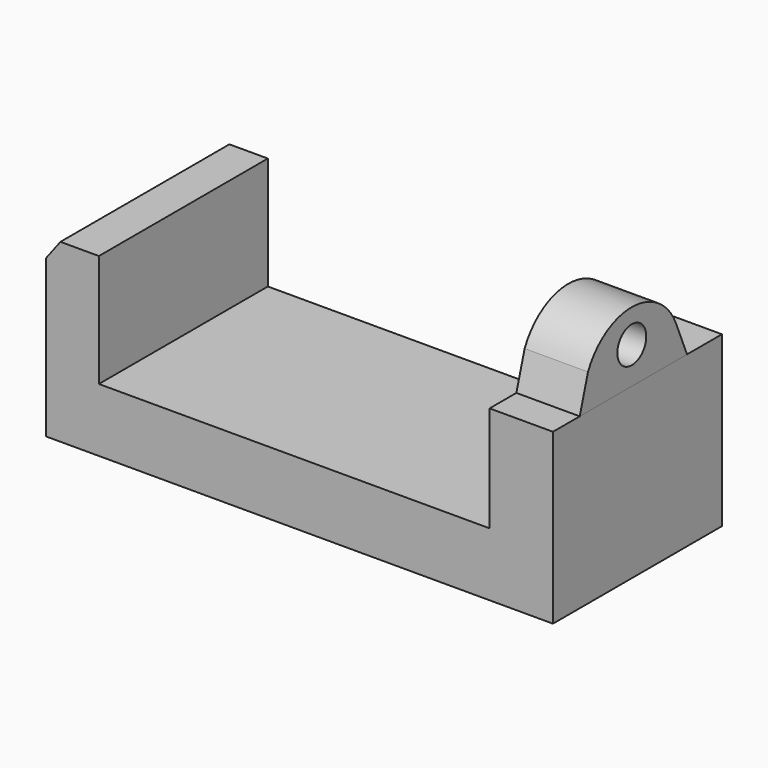
from build123d import *

# Parameters (mm, degrees)
F1_DEPTH = 127
F2_R     = 10.866884
F3_DEPTH = 38.1


with BuildPart() as f1:
    # F0 (on Front) → F1 (new body)
    with BuildSketch(Plane.XZ):
        Polygon((0, 94.452262), (0, 0), (304.8, 0), (304.8, 101.6), (266.7, 101.6), (266.7, 38.1), (31.75, 38.1), (31.75, 105.840716), (8.627616, 105.840716), align=None)
    extrude(amount=F1_DEPTH)


with BuildPart() as f3:
    # F2 (on face) → F3 (new body)
    with BuildSketch(Plane.YZ.offset(304.8)):
        with BuildLine():
            Line((-100.668401, 122.582532), (-106.871866, 101.6))
            Line((-106.871866, 101.6), (-26.226833, 101.6))
            Line((-26.226833, 101.6), (-34.498122, 121.341839))
            ThreePointArc((-34.498122, 121.341839), (-67.178913, 143.527437), (-100.668401, 122.582532))
        make_face()
        with Locations((-67.743756, 123.601116)):
            Circle(F2_R, mode=Mode.SUBTRACT)
    extrude(amount=-F3_DEPTH)


solid = Compound([f1.part, f3.part])
